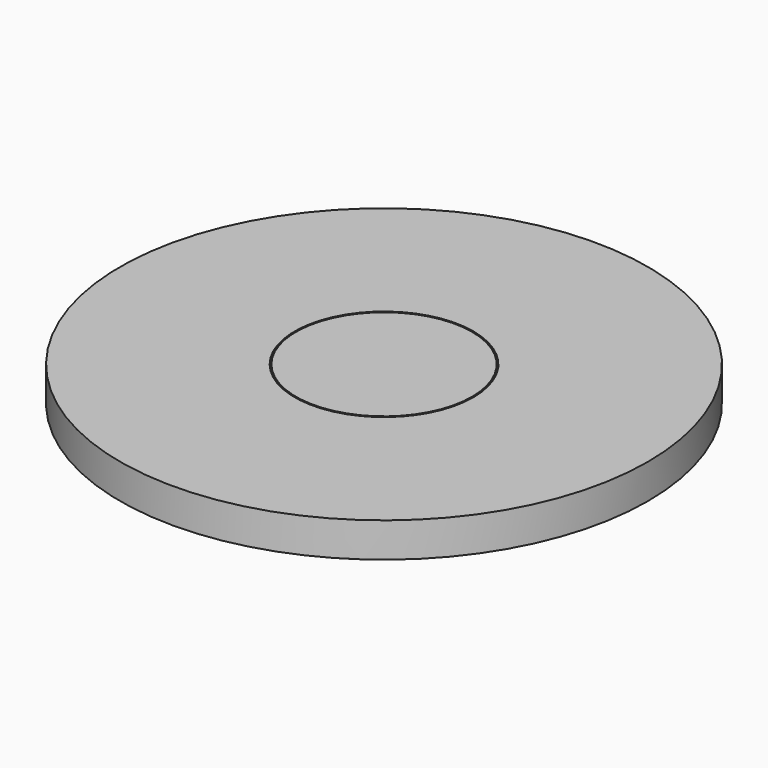
from build123d import *

# Parameters (mm, degrees)
F0_R     = 19.05
F1_DEPTH = 2.5
F2_R     = 6.45
F2_R_2   = 6.35
F3_DEPTH = 0.5
F4_DEPTH = 0.5


with BuildPart() as f1:
    # F0 (on Top) → F1 (new body)
    with BuildSketch(Plane.XY):
        Circle(F0_R)
    extrude(amount=F1_DEPTH)

    # F2 (on face) → F3 (cut)
    with BuildSketch(Plane.XY.offset(2.5)):
        Circle(F2_R)
        Circle(F2_R_2, mode=Mode.SUBTRACT)
    extrude(amount=-F3_DEPTH, mode=Mode.SUBTRACT)

    # F2 (on face) → F4 (cut)
    with BuildSketch(Plane.XY.offset(2.5)):
        Circle(F2_R)
        Circle(F2_R_2, mode=Mode.SUBTRACT)
    extrude(amount=-F4_DEPTH, mode=Mode.SUBTRACT)

    # F5 (on Front) → F6 (revolve)
    with BuildSketch(Plane.XZ):
        with BuildLine():
            Line((0, -2.375183), (0, 0))
            Line((0, 0), (-19.05, 0))
            ThreePointArc((-19.05, 0), (-16.407129, -1.284926), (-13.678185, -2.375183))
            Line((-13.678185, -2.375183), (0, -2.375183))
        make_face()
    revolve(axis=Axis((0, 0, -1.187592), (0, 0, -1)))


solid = f1.part
